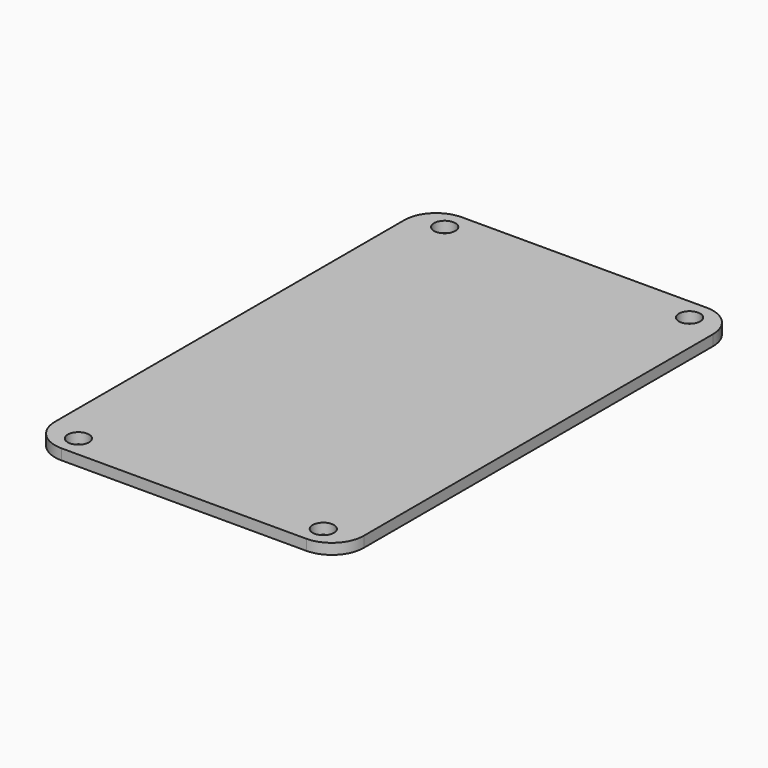
from build123d import *

# Parameters (mm, degrees)
SKETCH005_W                = 29
SKETCH005_H                = 47
PAD001_DEPTH               = 1
SKETCH006_R                = 1
POCKET003_DEPTH            = 111.472716
SKETCH006_MIRRORED_2_R     = 1
POCKET003_MIRRORED_2_DEPTH = 111.472716
FILLET002_R                = 3


with BuildPart() as part:
    # Sketch005 → Pad001 (new body)
    with BuildSketch(Plane.XY):
        Rectangle(SKETCH005_W, SKETCH005_H)
    extrude(amount=PAD001_DEPTH)

    # Sketch006 (on Face6 of Pad001) → Pocket003 (cut, through all)
    with BuildSketch(Plane.XY.offset(1)):
        with Locations((-11.5, 21.5)):
            Circle(SKETCH006_R)
    pocket003 = extrude(amount=-POCKET003_DEPTH, mode=Mode.SUBTRACT)

    # Sketch006 Mirrored 2 → Pocket003 Mirrored 2 (cut, through all)
    with BuildSketch(Plane(origin=(0, 0, 1), x_dir=(-1, 0, 0), z_dir=(0, 0, -1))):
        with Locations((-11.5, 21.5)):
            Circle(SKETCH006_MIRRORED_2_R)
    pocket003_mirrored_2 = extrude(amount=POCKET003_MIRRORED_2_DEPTH, mode=Mode.SUBTRACT)

    # Mirrored001: Pocket003, Pocket003 Mirrored 2 across Sketch006 H_Axis
    add(pocket003.mirror(Plane(origin=(0, 0, 1), x_dir=(0, 0, 1), z_dir=(0, 1, 0))), mode=Mode.SUBTRACT)
    add(pocket003_mirrored_2.mirror(Plane(origin=(0, 0, 1), x_dir=(0, 0, 1), z_dir=(0, 1, 0))), mode=Mode.SUBTRACT)

    # Fillet002
    fillet002_edges = [part.edges().sort_by_distance(p)[0] for p in [
        (-14.5, -23.5, 0.5),
        (14.5, -23.5, 0.5),
        (-14.5, 23.5, 0.5),
        (14.5, 23.5, 0.5),
    ]]
    fillet(fillet002_edges, radius=FILLET002_R)


with BuildPart() as part_1:
    # Body001 placement: moved
    add(part.part.moved(Location((0, 0, 14))))


solid = part_1.part
